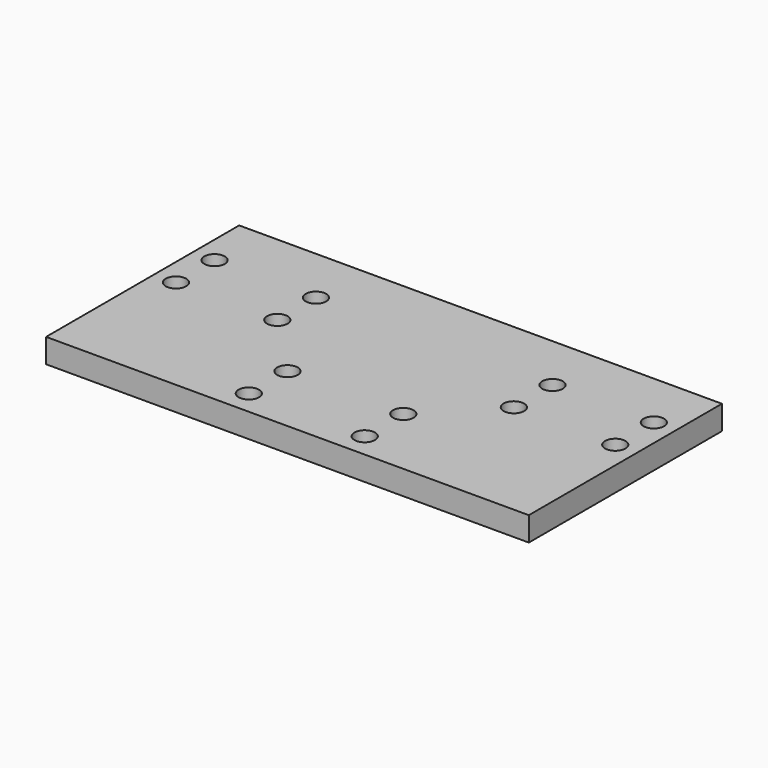
from build123d import *

# Parameters (mm, degrees)
F0_W     = 200
F0_H     = 100
F0_R     = 4.25
F1_DEPTH = 10


with BuildPart() as f1:
    # F0 (on Top) → F1 (new body)
    with BuildSketch(Plane.XY):
        with Locations((0, 30)):
            Rectangle(F0_W, F0_H)
        with Locations((-24, -10)):
            Circle(F0_R, mode=Mode.SUBTRACT)
        with Locations((-24, 10)):
            Circle(F0_R, mode=Mode.SUBTRACT)
        with Locations((24, -10)):
            Circle(F0_R, mode=Mode.SUBTRACT)
        with Locations((24, 10)):
            Circle(F0_R, mode=Mode.SUBTRACT)
        with Locations((-91, 36)):
            Circle(F0_R, mode=Mode.SUBTRACT)
        with Locations((-49, 36)):
            Circle(F0_R, mode=Mode.SUBTRACT)
        with Locations((-91, 56)):
            Circle(F0_R, mode=Mode.SUBTRACT)
        with Locations((-49, 56)):
            Circle(F0_R, mode=Mode.SUBTRACT)
        with Locations((49, 36)):
            Circle(F0_R, mode=Mode.SUBTRACT)
        with Locations((91, 36)):
            Circle(F0_R, mode=Mode.SUBTRACT)
        with Locations((49, 56)):
            Circle(F0_R, mode=Mode.SUBTRACT)
        with Locations((91, 56)):
            Circle(F0_R, mode=Mode.SUBTRACT)
    extrude(amount=F1_DEPTH)


solid = f1.part
